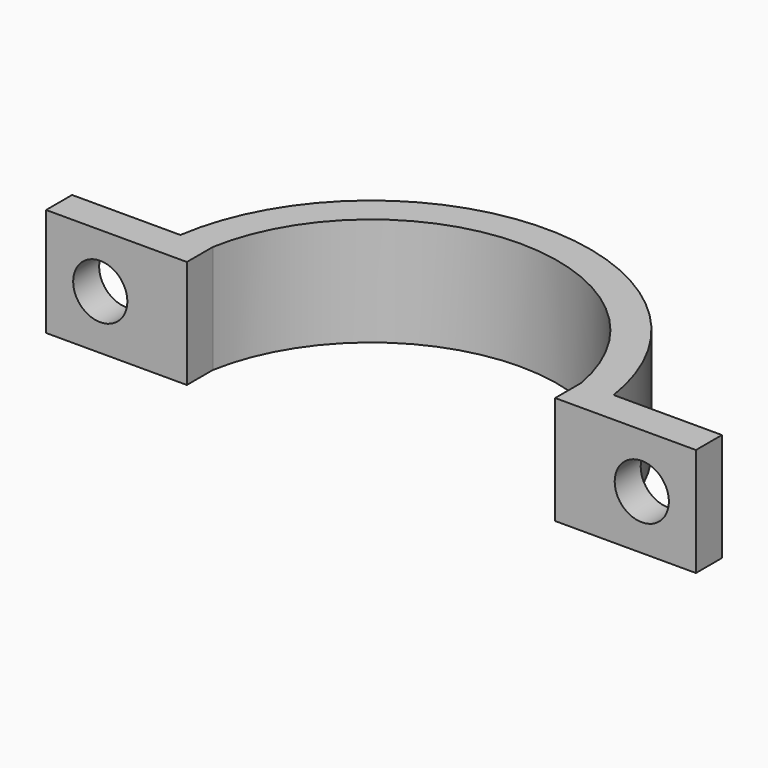
from build123d import *

# Parameters (mm, degrees)
PAD_DEPTH    = 10
SKETCH001_R  = 2.5
POCKET_DEPTH = 3.001


with BuildPart() as part:
    # Sketch → Pad (new body)
    with BuildSketch(Plane.XY):
        with BuildLine():
            ThreePointArc((20, 3), (0, 20.223748), (-20, 3))
            Line((-20, 3), (-30, 3))
            Line((-30, 3), (-30, 0))
            Line((-30, 0), (-17, 0))
            Line((-17, 0), (-17, 3))
            ThreePointArc((17, 3), (0, 17.262677), (-17, 3))
            Line((17, 0), (17, 3))
            Line((30, 0), (17, 0))
            Line((30, 3), (30, 0))
            Line((20, 3), (30, 3))
        make_face()
    extrude(amount=PAD_DEPTH)

    # Sketch001 (on Face2 of Pad) → Pocket (cut, through all)
    with BuildSketch(Plane(origin=(0, 3, 0), x_dir=(-1, 0, 0), z_dir=(0, 1, 0))):
        with Locations((-25, 5)):
            Circle(SKETCH001_R)
        with Locations((25, 5)):
            Circle(SKETCH001_R)
    extrude(amount=-POCKET_DEPTH, mode=Mode.SUBTRACT)


solid = part.part
